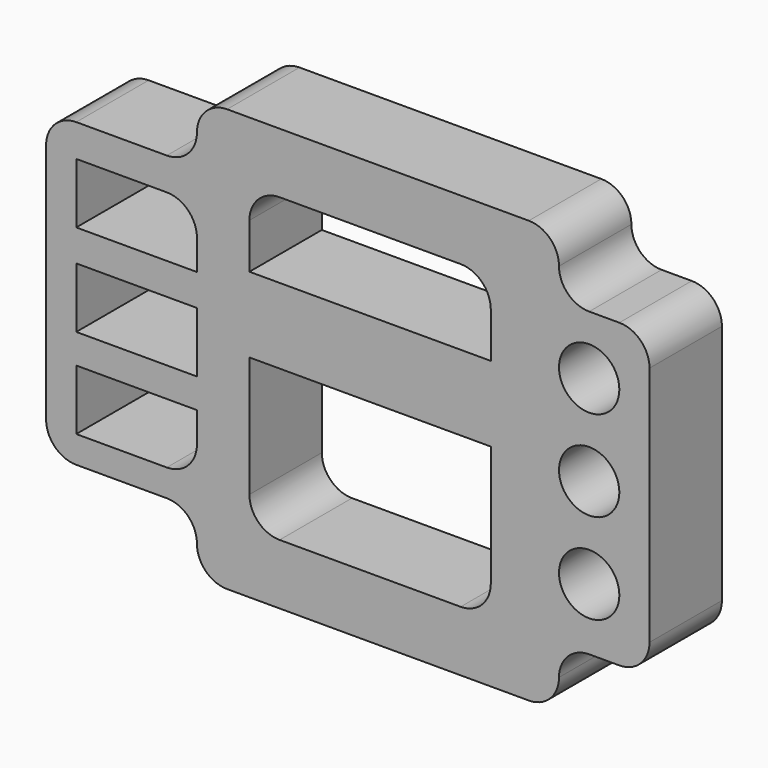
from build123d import *

# Parameters (mm, degrees)
F0_W     = 40
F0_H     = 20
F0_R     = 10
F1_DEPTH = 30
F2_DEPTH = 30


with BuildPart() as f1:
    # F0 (on Front) → F1 (new body)
    with BuildSketch(Plane.XZ):
        with BuildLine():
            ThreePointArc((-20.300006, -30.491507), (-17.371073, -37.562575), (-10.300006, -40.491507))
            Line((-10.300006, -40.491507), (89.699994, -40.491507))
            ThreePointArc((89.699994, -40.491507), (96.771062, -37.562575), (99.699994, -30.491507))
            ThreePointArc((99.699994, -30.491507), (102.628927, -23.420439), (109.699994, -20.491507))
            Line((109.699994, -20.491507), (119.699994, -20.491507))
            ThreePointArc((119.699994, -20.491507), (126.771062, -17.562575), (129.699994, -10.491507))
            Line((129.699994, -10.491507), (129.699994, 69.508493))
            ThreePointArc((129.699994, 69.508493), (126.771062, 76.579561), (119.699994, 79.508493))
            Line((119.699994, 79.508493), (109.699994, 79.508493))
            ThreePointArc((109.699994, 79.508493), (102.628927, 82.437425), (99.699994, 89.508493))
            ThreePointArc((99.699994, 89.508493), (96.771062, 96.579561), (89.699994, 99.508493))
            Line((89.699994, 99.508493), (-10.300006, 99.508493))
            ThreePointArc((-10.300006, 99.508493), (-17.371073, 96.579561), (-20.300006, 89.508493))
            ThreePointArc((-20.300006, 89.508493), (-23.228938, 82.437425), (-30.300006, 79.508493))
            Line((-30.300006, 79.508493), (-60.300006, 79.508493))
            ThreePointArc((-60.300006, 79.508493), (-67.371073, 76.579561), (-70.300006, 69.508493))
            Line((-70.300006, 69.508493), (-70.300006, -10.491507))
            ThreePointArc((-70.300006, -10.491507), (-67.371073, -17.562575), (-60.300006, -20.491507))
            Line((-60.300006, -20.491507), (-30.300006, -20.491507))
            ThreePointArc((-30.300006, -20.491507), (-23.228938, -23.420439), (-20.300006, -30.491507))
        make_face()
        with BuildLine():
            Line((-60.300006, -11.514896), (-60.300006, 8.485104))
            Line((-60.300006, 8.485104), (-20.300006, 8.485104))
            Line((-20.300006, 8.485104), (-20.300006, -1.514896))
            ThreePointArc((-20.300006, -1.514896), (-23.228938, -8.585963), (-30.300006, -11.514896))
            Line((-30.300006, -11.514896), (-60.300006, -11.514896))
        make_face(mode=Mode.SUBTRACT)
        with Locations((-40.300006, 28.283684)):
            Rectangle(F0_W, F0_H, mode=Mode.SUBTRACT)
        with BuildLine():
            Line((67.096237, -20.491507), (7.096237, -20.491507))
            ThreePointArc((7.096237, -20.491507), (0.025169, -17.562575), (-2.903763, -10.491507))
            Line((-2.903763, -10.491507), (-2.903763, 29.508493))
            Line((-2.903763, 29.508493), (77.096237, 29.508493))
            Line((77.096237, 29.508493), (77.096237, -10.491507))
            ThreePointArc((77.096237, -10.491507), (74.167304, -17.562575), (67.096237, -20.491507))
        make_face(mode=Mode.SUBTRACT)
        with Locations((109.699994, 0)):
            Circle(F0_R, mode=Mode.SUBTRACT)
        with BuildLine():
            Line((-60.300006, 48.767287), (-60.300006, 68.767287))
            Line((-60.300006, 68.767287), (-30.300006, 68.767287))
            ThreePointArc((-30.300006, 68.767287), (-23.228938, 65.838355), (-20.300006, 58.767287))
            Line((-20.300006, 58.767287), (-20.300006, 48.767287))
            Line((-20.300006, 48.767287), (-60.300006, 48.767287))
        make_face(mode=Mode.SUBTRACT)
        with Locations((109.699994, 30)):
            Circle(F0_R, mode=Mode.SUBTRACT)
        with Locations((109.699994, 60)):
            Circle(F0_R, mode=Mode.SUBTRACT)
        with BuildLine():
            ThreePointArc((-2.903763, 69.508493), (0.025169, 76.579561), (7.096237, 79.508493))
            Line((7.096237, 79.508493), (67.096237, 79.508493))
            ThreePointArc((67.096237, 79.508493), (74.167304, 76.579561), (77.096237, 69.508493))
            Line((77.096237, 69.508493), (77.096237, 54.508493))
            Line((77.096237, 54.508493), (-2.903763, 54.508493))
            Line((-2.903763, 54.508493), (-2.903763, 69.508493))
        make_face(mode=Mode.SUBTRACT)
    extrude(amount=F1_DEPTH)

    # F0 (on Front) → F2 (join)
    with BuildSketch(Plane.XZ):
        with BuildLine():
            ThreePointArc((-20.300006, -30.491507), (-17.371073, -37.562575), (-10.300006, -40.491507))
            Line((-10.300006, -40.491507), (89.699994, -40.491507))
            ThreePointArc((89.699994, -40.491507), (96.771062, -37.562575), (99.699994, -30.491507))
            ThreePointArc((99.699994, -30.491507), (102.628927, -23.420439), (109.699994, -20.491507))
            Line((109.699994, -20.491507), (119.699994, -20.491507))
            ThreePointArc((119.699994, -20.491507), (126.771062, -17.562575), (129.699994, -10.491507))
            Line((129.699994, -10.491507), (129.699994, 69.508493))
            ThreePointArc((129.699994, 69.508493), (126.771062, 76.579561), (119.699994, 79.508493))
            Line((119.699994, 79.508493), (109.699994, 79.508493))
            ThreePointArc((109.699994, 79.508493), (102.628927, 82.437425), (99.699994, 89.508493))
            ThreePointArc((99.699994, 89.508493), (96.771062, 96.579561), (89.699994, 99.508493))
            Line((89.699994, 99.508493), (-10.300006, 99.508493))
            ThreePointArc((-10.300006, 99.508493), (-17.371073, 96.579561), (-20.300006, 89.508493))
            ThreePointArc((-20.300006, 89.508493), (-23.228938, 82.437425), (-30.300006, 79.508493))
            Line((-30.300006, 79.508493), (-60.300006, 79.508493))
            ThreePointArc((-60.300006, 79.508493), (-67.371073, 76.579561), (-70.300006, 69.508493))
            Line((-70.300006, 69.508493), (-70.300006, -10.491507))
            ThreePointArc((-70.300006, -10.491507), (-67.371073, -17.562575), (-60.300006, -20.491507))
            Line((-60.300006, -20.491507), (-30.300006, -20.491507))
            ThreePointArc((-30.300006, -20.491507), (-23.228938, -23.420439), (-20.300006, -30.491507))
        make_face()
        with BuildLine():
            Line((-60.300006, -11.514896), (-60.300006, 8.485104))
            Line((-60.300006, 8.485104), (-20.300006, 8.485104))
            Line((-20.300006, 8.485104), (-20.300006, -1.514896))
            ThreePointArc((-20.300006, -1.514896), (-23.228938, -8.585963), (-30.300006, -11.514896))
            Line((-30.300006, -11.514896), (-60.300006, -11.514896))
        make_face(mode=Mode.SUBTRACT)
        with Locations((-40.300006, 28.283684)):
            Rectangle(F0_W, F0_H, mode=Mode.SUBTRACT)
        with BuildLine():
            Line((67.096237, -20.491507), (7.096237, -20.491507))
            ThreePointArc((7.096237, -20.491507), (0.025169, -17.562575), (-2.903763, -10.491507))
            Line((-2.903763, -10.491507), (-2.903763, 29.508493))
            Line((-2.903763, 29.508493), (77.096237, 29.508493))
            Line((77.096237, 29.508493), (77.096237, -10.491507))
            ThreePointArc((77.096237, -10.491507), (74.167304, -17.562575), (67.096237, -20.491507))
        make_face(mode=Mode.SUBTRACT)
        with Locations((109.699994, 0)):
            Circle(F0_R, mode=Mode.SUBTRACT)
        with BuildLine():
            Line((-60.300006, 48.767287), (-60.300006, 68.767287))
            Line((-60.300006, 68.767287), (-30.300006, 68.767287))
            ThreePointArc((-30.300006, 68.767287), (-23.228938, 65.838355), (-20.300006, 58.767287))
            Line((-20.300006, 58.767287), (-20.300006, 48.767287))
            Line((-20.300006, 48.767287), (-60.300006, 48.767287))
        make_face(mode=Mode.SUBTRACT)
        with Locations((109.699994, 30)):
            Circle(F0_R, mode=Mode.SUBTRACT)
        with Locations((109.699994, 60)):
            Circle(F0_R, mode=Mode.SUBTRACT)
        with BuildLine():
            ThreePointArc((-2.903763, 69.508493), (0.025169, 76.579561), (7.096237, 79.508493))
            Line((7.096237, 79.508493), (67.096237, 79.508493))
            ThreePointArc((67.096237, 79.508493), (74.167304, 76.579561), (77.096237, 69.508493))
            Line((77.096237, 69.508493), (77.096237, 54.508493))
            Line((77.096237, 54.508493), (-2.903763, 54.508493))
            Line((-2.903763, 54.508493), (-2.903763, 69.508493))
        make_face(mode=Mode.SUBTRACT)
    extrude(amount=F2_DEPTH)


solid = f1.part
